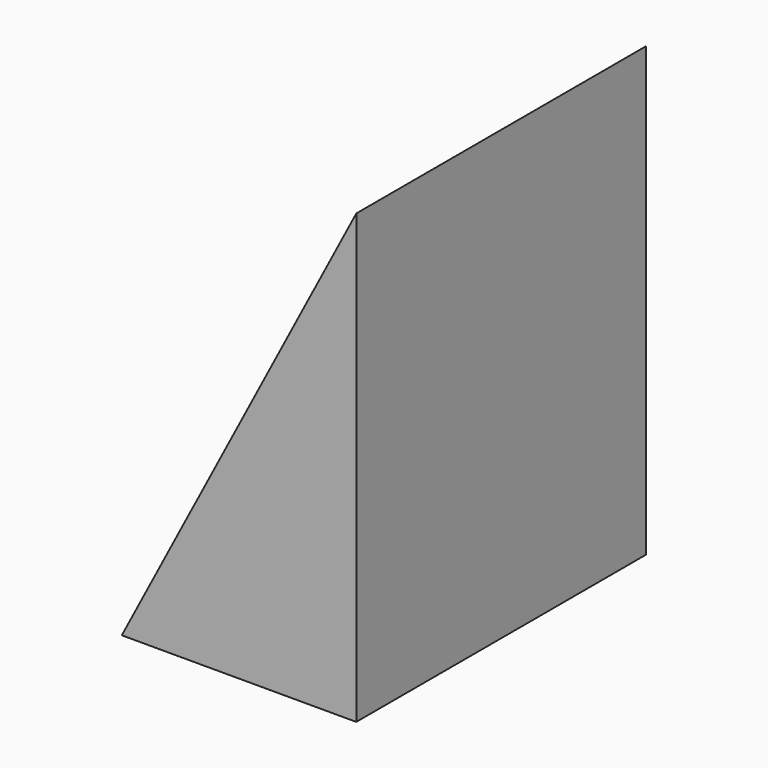
from build123d import *

# Parameters (mm, degrees)
F1_DEPTH = 170
F2_T     = -2.5


with BuildPart() as f1:
    # F0 (on Front) → F1 (new body)
    with BuildSketch(Plane.XZ):
        Polygon((110, 210), (0, 0), (110, 0), align=None)
    extrude(amount=F1_DEPTH)

    # F2
    f2_openings = [f1.faces().sort_by_distance(p)[0] for p in [
        (55, -85, 105),
    ]]
    offset(amount=F2_T, openings=f2_openings)


solid = f1.part
